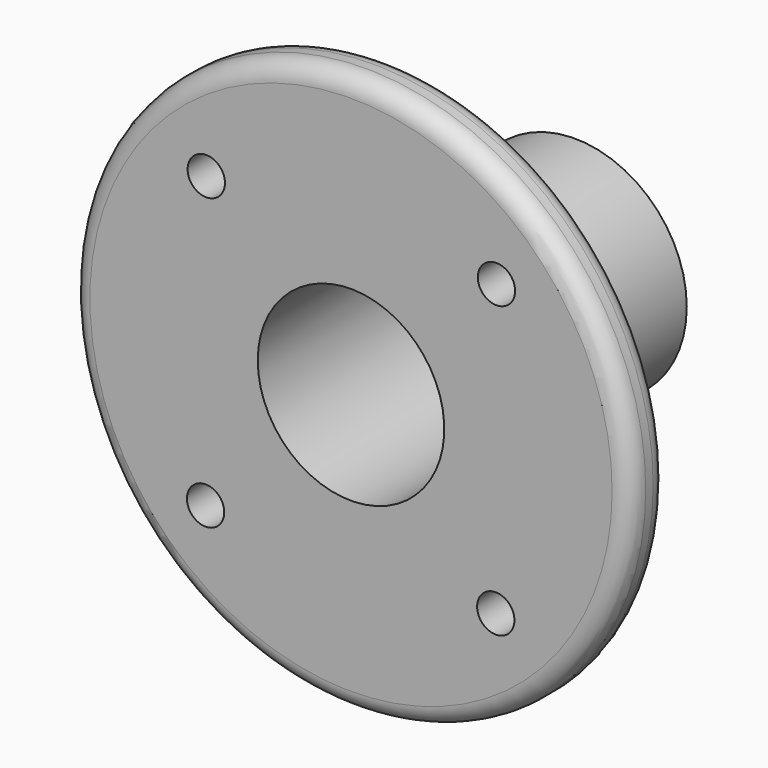
from build123d import *

# Parameters (mm, degrees)
F0_R     = 7.62
F1_DEPTH = 19.05
F2_R     = 19.05
F2_R_2   = 7.62
F3_DEPTH = 3.175
F4_D     = 12.7
F5_R     = 1.27
F7_D     = 2.54


with BuildPart() as f1:
    # F0 (on Front) → F1 (new body)
    with BuildSketch(Plane.XZ):
        Circle(F0_R)
    extrude(amount=F1_DEPTH)

    # F2 (on face) → F3 (join)
    with BuildSketch(Plane.XZ.offset(19.05)):
        Circle(F2_R)
        Circle(F2_R_2, mode=Mode.SUBTRACT)
        Circle(F2_R_2)
    extrude(amount=-F3_DEPTH)

    # F4 (through all)
    with Locations(Plane(origin=(0, 0, 0), x_dir=(1, 0, 0), z_dir=(0, 1, 0))):
        with Locations((0, 0)):
            Hole(F4_D / 2)

    # F5
    f5_edges = [f1.edges().sort_by_distance(p)[0] for p in [
        (-19.05, -15.875, 0),
        (-7.62, -15.875, 0),
        (-19.05, -19.05, 0),
    ]]
    fillet(f5_edges, radius=F5_R)

    # F7 (through all)
    with Locations(Plane(origin=(0, -15.875, 0), x_dir=(-1, 0, 0), z_dir=(0, 1, 0))):
        with Locations((-9.90131, 9.8552), (9.8552, 9.90131), (9.90131, -9.8552), (-9.8552, -9.90131)):
            Hole(F7_D / 2)


solid = f1.part
